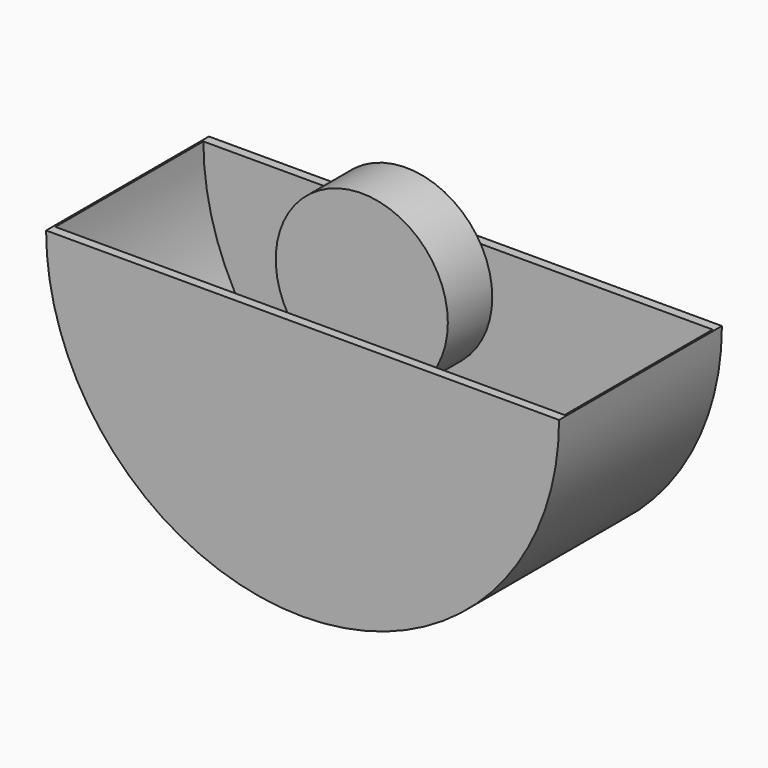
from build123d import *

# Parameters (mm, degrees)
F0_R     = 46.5
F1_DEPTH = 15
F4_DEPTH = 55
F5_START = 50
F5_DEPTH = 5
F6_START = -50
F6_DEPTH = 5


with BuildPart() as f1:
    # F0 (on Front) → F1 (new body, symmetric)
    with BuildSketch(Plane.XZ):
        Circle(F0_R)
    extrude(amount=F1_DEPTH, both=True)


with BuildPart() as f3:
    # F2 (on Front) → F3 (revolve)
    with BuildSketch(Plane.XZ):
        with BuildLine():
            Line((0, -137.5), (0, -47.5))
            ThreePointArc((0, -47.5), (-45, -92.5), (0, -137.5))
        make_face()
    revolve(axis=Axis((0, 0, -92.5), (0, 0, -1)))


with BuildPart() as f4:
    # F2 (on Front) → F4 (new body, symmetric)
    with BuildSketch(Plane.XZ):
        with BuildLine():
            Line((138.6, 0), (137.6, 0))
            ThreePointArc((137.6, 0), (0, -137.6), (-137.6, 0))
            Line((-137.6, 0), (-138.6, 0))
            ThreePointArc((-138.6, 0), (0, -138.6), (138.6, 0))
        make_face()
    extrude(amount=F4_DEPTH, both=True)

    # F2 (on Front) → F5 (join)
    with BuildSketch(Plane.XZ.offset(F5_START)):
        with BuildLine():
            ThreePointArc((-137.6, 0), (0, -137.6), (137.6, 0))
            Line((137.6, 0), (0, 0))
            Line((0, 0), (-137.6, 0))
        make_face()
        with BuildLine():
            ThreePointArc((0, -47.5), (31.8198051534, -60.6801948466), (45, -92.5))
            ThreePointArc((45, -92.5), (31.8198051534, -124.3198051534), (0, -137.5))
            ThreePointArc((0, -137.5), (-45, -92.5), (0, -47.5))
        make_face(mode=Mode.SUBTRACT)
        with BuildLine():
            ThreePointArc((0, -137.5), (31.8198051534, -124.3198051534), (45, -92.5))
            ThreePointArc((45, -92.5), (31.8198051534, -60.6801948466), (0, -47.5))
            Line((0, -47.5), (0, -137.5))
        make_face()
        with BuildLine():
            Line((0, -137.5), (0, -47.5))
            ThreePointArc((0, -47.5), (-45, -92.5), (0, -137.5))
        make_face()
    extrude(amount=F5_DEPTH)

    # F2 (on Front) → F6 (join)
    with BuildSketch(Plane.XZ.offset(F6_START)):
        with BuildLine():
            ThreePointArc((-137.6, 0), (0, -137.6), (137.6, 0))
            Line((137.6, 0), (0, 0))
            Line((0, 0), (-137.6, 0))
        make_face()
        with BuildLine():
            ThreePointArc((0, -47.5), (31.8198051534, -60.6801948466), (45, -92.5))
            ThreePointArc((45, -92.5), (31.8198051534, -124.3198051534), (0, -137.5))
            ThreePointArc((0, -137.5), (-45, -92.5), (0, -47.5))
        make_face(mode=Mode.SUBTRACT)
        with BuildLine():
            ThreePointArc((0, -137.5), (31.8198051534, -124.3198051534), (45, -92.5))
            ThreePointArc((45, -92.5), (31.8198051534, -60.6801948466), (0, -47.5))
            Line((0, -47.5), (0, -137.5))
        make_face()
        with BuildLine():
            Line((0, -137.5), (0, -47.5))
            ThreePointArc((0, -47.5), (-45, -92.5), (0, -137.5))
        make_face()
    extrude(amount=-F6_DEPTH)


solid = Compound([f1.part, f3.part, f4.part])
